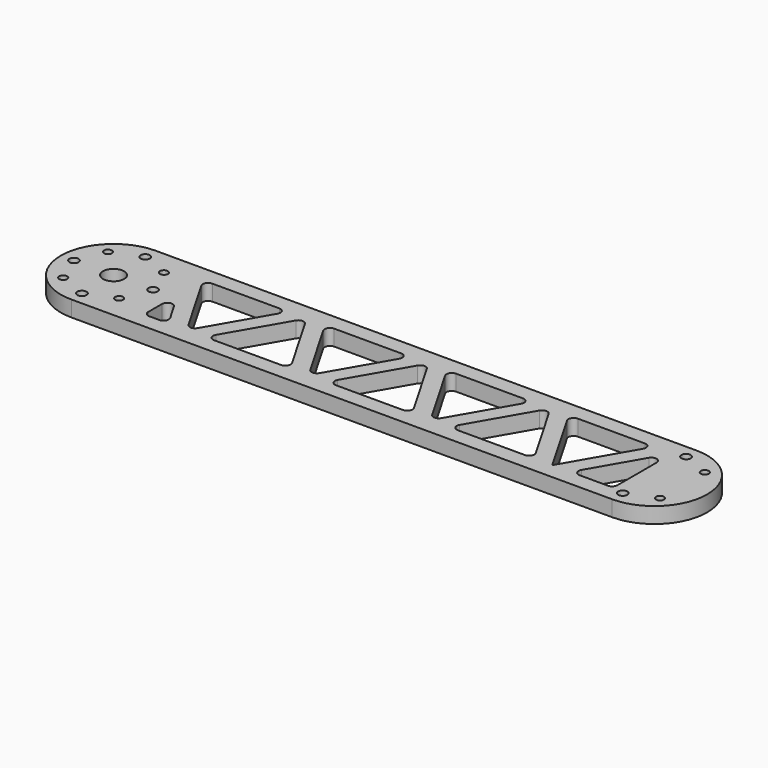
from build123d import *

# Parameters (mm, degrees)
F0_R     = 1.75
F0_R_2   = 1.5
F1_DEPTH = 6
F3_DEPTH = 6.001
F4_R     = 2


with BuildPart() as f1:
    # F0 (on Top) → F1 (new body)
    with BuildSketch(Plane.XY):
        with BuildLine():
            ThreePointArc((0, 40), (-20, 20), (0, 0))
            Line((0, 0), (205, 0))
            ThreePointArc((205, 0), (225, 20), (205, 40))
            Line((205, 40), (0, 40))
        make_face()
        with Locations((0, 5)):
            Circle(F0_R, mode=Mode.SUBTRACT)
        with Locations((-10.6066017178, 9.3933982822)):
            Circle(F0_R_2, mode=Mode.SUBTRACT)
        with Locations((10.6066017178, 9.3933982822)):
            Circle(F0_R_2, mode=Mode.SUBTRACT)
        with Locations((205, 5)):
            Circle(F0_R, mode=Mode.SUBTRACT)
        with Locations((215.6066017178, 9.3933982822)):
            Circle(F0_R_2, mode=Mode.SUBTRACT)
        with Locations((-15, 20)):
            Circle(F0_R, mode=Mode.SUBTRACT)
        with BuildLine():
            ThreePointArc((4, 20), (-3.69551813, 18.4692662705), (2.8284271247, 22.8284271247))
            ThreePointArc((2.8284271247, 22.8284271247), (3.69551813, 21.5307337295), (4, 20))
        make_face(mode=Mode.SUBTRACT)
        with Locations((15, 20)):
            Circle(F0_R, mode=Mode.SUBTRACT)
        with Locations((-10.6066017178, 30.6066017178)):
            Circle(F0_R_2, mode=Mode.SUBTRACT)
        with BuildLine():
            ThreePointArc((12.1066017178, 30.6066017178), (11.1806268663, 29.220782419), (9.545941546, 29.545941546))
            ThreePointArc((9.545941546, 29.545941546), (10.0325765693, 31.9924210166), (12.1066017178, 30.6066017178))
        make_face(mode=Mode.SUBTRACT)
        with Locations((0, 35)):
            Circle(F0_R, mode=Mode.SUBTRACT)
        with Locations((215.6066017178, 30.6066017178)):
            Circle(F0_R_2, mode=Mode.SUBTRACT)
        with Locations((205, 35)):
            Circle(F0_R, mode=Mode.SUBTRACT)
    extrude(amount=F1_DEPTH)

    # F2 (on face) → F3 (cut, through all)
    with BuildSketch(Plane.XY.offset(6)):
        Polygon((55.0816150746, 34), (22.75, 34), (38.9158075373, 6), align=None)
        Polygon((62.0098183049, 34), (45.8440107676, 6), (78.1756258422, 6), align=None)
        Polygon((85.1038290725, 6), (101.2696366098, 34), (68.9380215352, 34), align=None)
        Polygon((124.3636473774, 6), (108.1978398401, 34), (92.0320323028, 6), align=None)
        Polygon((131.2918506076, 6), (147.457658145, 34), (115.1260430703, 34), align=None)
        Polygon((170.5516689125, 6), (154.3858613752, 34), (138.2200538379, 6), align=None)
        Polygon((177.4798721428, 6), (193.6456796801, 34), (161.3140646055, 34), align=None)
        Polygon((200.5738829104, 6), (200.5738829104, 34), (184.4080753731, 6), align=None)
        Polygon((22.75, 22), (22.75, 6), (31.987604307, 6), align=None)
    extrude(amount=-F3_DEPTH, mode=Mode.SUBTRACT)

    # F4
    f4_edges = [f1.edges().sort_by_distance(p)[0] for p in [
        (22.75, 34, 3),
        (55.081615, 34, 3),
        (38.915808, 6, 3),
        (45.844011, 6, 3),
        (62.009818, 34, 3),
        (78.175626, 6, 3),
        (22.75, 22, 3),
        (22.75, 6, 3),
        (31.987604, 6, 3),
        (68.938022, 34, 3),
        (101.269637, 34, 3),
        (85.103829, 6, 3),
        (92.032032, 6, 3),
        (108.19784, 34, 3),
        (124.363647, 6, 3),
        (115.126043, 34, 3),
        (161.314065, 34, 3),
        (147.457658, 34, 3),
        (193.64568, 34, 3),
        (131.291851, 6, 3),
        (154.385861, 34, 3),
        (170.551669, 6, 3),
        (138.220054, 6, 3),
        (200.573883, 6, 3),
        (184.408075, 6, 3),
        (200.573883, 34, 3),
    ]]
    fillet(f4_edges, radius=F4_R)


solid = f1.part
